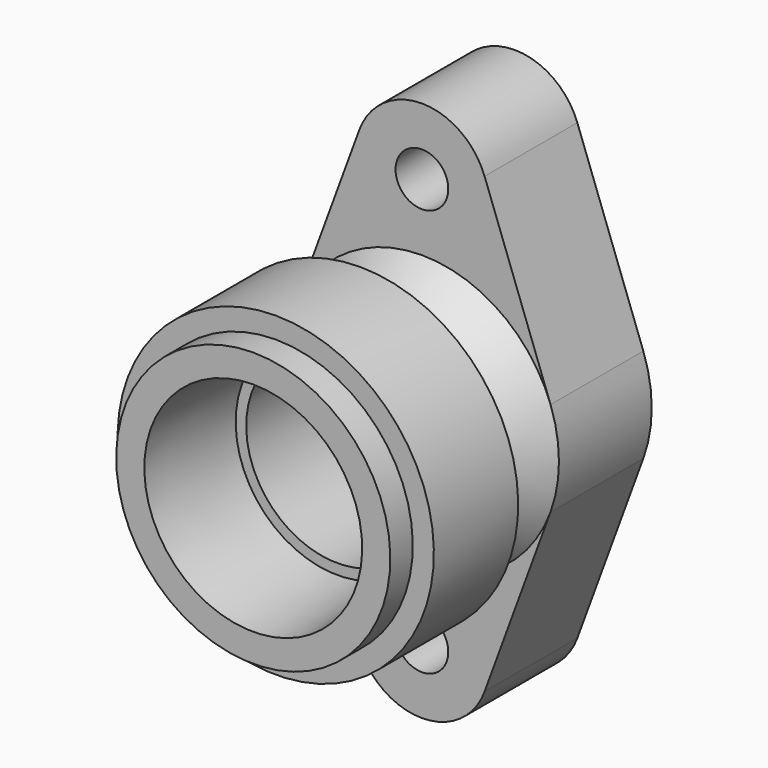
from build123d import *

# Parameters (mm, degrees)
F2_R     = 7.5
F3_DEPTH = 33


with BuildPart() as f1:
    # F0 (on Right) → F1 (revolve)
    with BuildSketch(Plane.YZ):
        with BuildLine():
            Line((0, 39), (0, 31))
            Line((0, 31), (30, 29))
            Line((30, 29), (30, 26))
            Line((30, 26), (72, 26))
            Line((72, 26), (72, 0))
            Line((72, 0), (90, 0))
            Line((90, 0), (90, 32))
            Line((90, 32), (93, 32))
            Line((93, 32), (93, 39))
            Line((93, 39), (60, 39))
            Line((60, 39), (45.8678821818, 29.1045845728))
            ThreePointArc((45.8678821818, 29.1045845728), (40.6912569338, 28.7652906284), (38, 33.2003447942))
            Line((38, 33.2003447942), (38, 45))
            Line((38, 45), (8, 45))
            Line((8, 45), (8, 39))
            Line((8, 39), (0, 39))
        make_face()
    revolve(axis=Axis((0, 81, 0), (0, -1, 0)))

    # F2 (on face) → F3 (join)
    with BuildSketch(Plane(origin=(0, 93, 0), x_dir=(-1, 0, 0), z_dir=(0, 1, 0))):
        with BuildLine():
            Line((36.6079755837, 13.4482758621), (17.8346547716, 64.5517241379))
            ThreePointArc((17.8346547716, 64.5517241379), (0, 77), (-17.8346547716, 64.5517241379))
            Line((-17.8346547716, 64.5517241379), (-36.6079755837, 13.4482758621))
            ThreePointArc((-36.6079755837, 13.4482758621), (0, 39), (36.6079755837, 13.4482758621))
        make_face()
        with Locations((0, 58)):
            Circle(F2_R, mode=Mode.SUBTRACT)
        with BuildLine():
            ThreePointArc((36.6079755837, -13.4482758621), (0, -39), (-36.6079755837, -13.4482758621))
            Line((-36.6079755837, -13.4482758621), (-17.8346547716, -64.5517241379))
            ThreePointArc((-17.8346547716, -64.5517241379), (0, -77), (17.8346547716, -64.5517241379))
            Line((17.8346547716, -64.5517241379), (36.6079755837, -13.4482758621))
        make_face()
        with Locations((0, -58)):
            Circle(F2_R, mode=Mode.SUBTRACT)
    extrude(amount=-F3_DEPTH)


solid = f1.part
